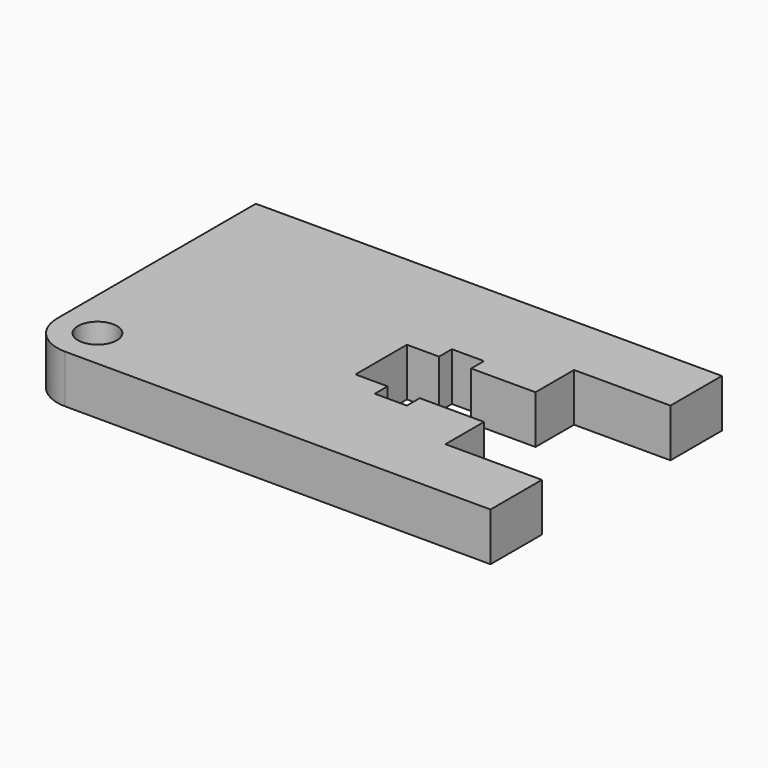
from build123d import *

# Parameters (mm, degrees)
F0_R     = 3.07505
F1_DEPTH = 7.62


with BuildPart() as f1:
    # F0 (on Top) → F1 (new body)
    with BuildSketch(Plane.XY):
        with BuildLine():
            Line((73.66, 0), (0, 0))
            Line((0, 0), (0, -39.215128))
            ThreePointArc((0, -39.215128), (1.85471, -43.700088), (6.335392, -45.565111))
            Line((6.335392, -45.565111), (73.664084, -45.72))
            Line((73.664084, -45.72), (73.664084, -35.56))
            Line((73.664084, -35.56), (58.417156, -35.56))
            Line((58.417156, -35.56), (58.417156, -27.94))
            Line((58.417156, -27.94), (48.26, -27.94))
            Line((48.26, -27.94), (48.26, -30.48))
            Line((48.26, -30.48), (43.18, -30.48))
            Line((43.18, -30.48), (43.18, -27.94))
            Line((43.18, -27.94), (38.1, -27.94))
            Line((38.1, -27.94), (38.1, -17.78))
            Line((38.1, -17.78), (43.18, -17.78))
            Line((43.18, -17.78), (43.18, -15.24))
            Line((43.18, -15.24), (48.26, -15.24))
            Line((48.26, -15.24), (48.26, -17.78))
            Line((48.26, -17.78), (58.42, -17.78))
            Line((58.42, -17.78), (58.42, -10.16))
            Line((58.42, -10.16), (73.66, -10.16))
            Line((73.66, -10.16), (73.66, 0))
        make_face()
        with Locations((6.35, -39.215128)):
            Circle(F0_R, mode=Mode.SUBTRACT)
    extrude(amount=F1_DEPTH)


solid = f1.part
